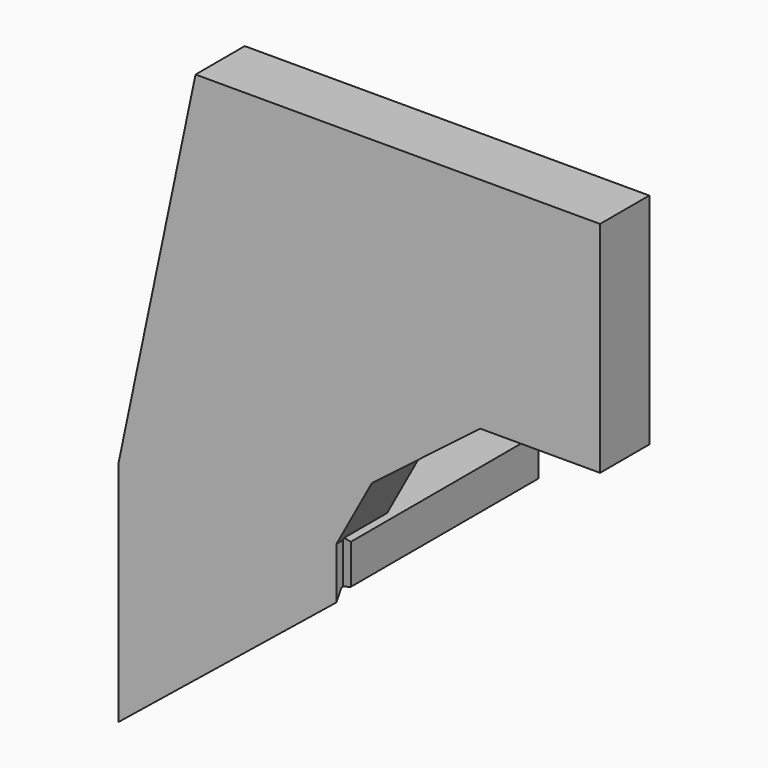
from build123d import *

# Parameters (mm, degrees)
SKETCH040_R  = 1.5
PAD029_DEPTH = 20
SKETCH045_R  = 3
PAD031_DEPTH = 10
SKETCH037_W  = 15.25
SKETCH037_H  = 2.793113
SKETCH038_W  = 8.25
SKETCH038_H  = 8.85529
PAD030_DEPTH = 4


with BuildPart() as mountingblock_cutout:
    # Sketch042 → Loft002 section 0
    with BuildSketch(Plane.YZ.offset(16.5)):
        Polygon((15.5, 0), (7.75, 13.423394), (-7.75, 13.423394), (-15.5, 0), (-7.75, -13.423394), (7.75, -13.423394), align=None)
    # Sketch043 → Loft002 section 1
    with BuildSketch(Plane.YZ.offset(31.5)):
        Polygon((8.5, 0), (4.25, 7.361216), (-4.25, 7.361216), (-8.5, 0), (-4.25, -7.361216), (4.25, -7.361216), align=None)
    loft(ruled=True)


with BuildPart() as screw_cutouts:
    # Sketch040 → Pad029 (new body)
    with BuildSketch(Plane.XY.offset(16)):
        with Locations((22, 4)):
            Circle(SKETCH040_R)
        with Locations((22, -4)):
            Circle(SKETCH040_R)
    extrude(amount=-PAD029_DEPTH)


with BuildPart() as cutouts:
    # Sketch045 → Pad031 (new body)
    with BuildSketch(Plane.XY.offset(16)):
        with Locations((22, 4)):
            Circle(SKETCH045_R)
        with Locations((22, -4)):
            Circle(SKETCH045_R)
    extrude(amount=PAD031_DEPTH)

    # Fusion004008: union MountingBlock Cutout, Screw Cutouts
    add(mountingblock_cutout.part)
    add(screw_cutouts.part)


with BuildPart() as mountingblock_mount:
    # Sketch037 → Loft001 section 0
    with BuildSketch(Plane.YZ.offset(16.5)):
        with Locations((0, 14.603444)):
            Rectangle(SKETCH037_W, SKETCH037_H)
    # Sketch038 → Loft001 section 1
    with BuildSketch(Plane.YZ.offset(31.5)):
        with Locations((0, 11.572355)):
            Rectangle(SKETCH038_W, SKETCH038_H)
    loft(ruled=True)


with BuildPart() as base_plate:
    # Sketch041 → Pad030 (new body)
    with BuildSketch(Plane.XZ.offset(8)):
        Polygon((31.289345, 0), (31.289345, 15.901777), (26.297165, 39.708817), (0, 39.708817), (0, 25.462919), (7.794133, 25.462919), (14.835288, 20.052349), (17.132925, 15.827662), (17.132925, 0), align=None)
    extrude(amount=-PAD030_DEPTH)

    # Fusion004009: union MountingBlock Mount
    add(mountingblock_mount.part)

    # Cut007003: cut cutouts
    add(cutouts.part, mode=Mode.SUBTRACT)


with BuildPart() as part_mirroring:
    # Part__Mirroring: instance of Base Plate
    add(base_plate.part.mirror(Plane(origin=(0, 0, 0), x_dir=(0, -1, 0), z_dir=(1, 0, 0))))


solid = part_mirroring.part
